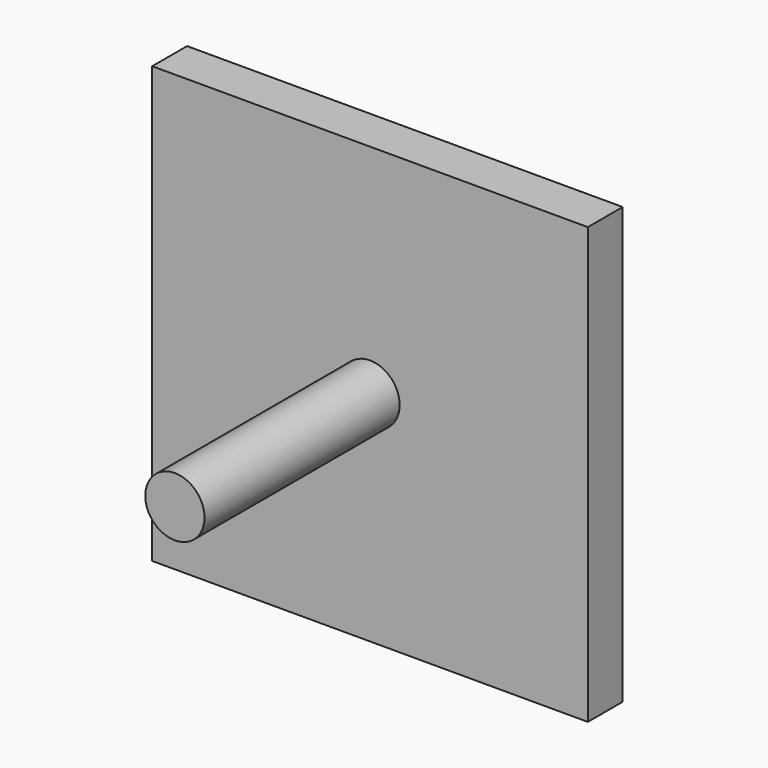
from build123d import *

# Parameters (mm, degrees)
F0_W     = 50
F0_H     = 50
F0_R     = 3.4
F1_DEPTH = 5
F2_DEPTH = 33


with BuildPart() as f1:
    # F0 (on Front) → F1 (new body)
    with BuildSketch(Plane.XZ):
        Rectangle(F0_W, F0_H)
        Circle(F0_R, mode=Mode.SUBTRACT)
    extrude(amount=F1_DEPTH)

    # F0 (on Front) → F2 (join)
    with BuildSketch(Plane.XZ):
        Circle(F0_R)
    extrude(amount=F2_DEPTH)


solid = f1.part
